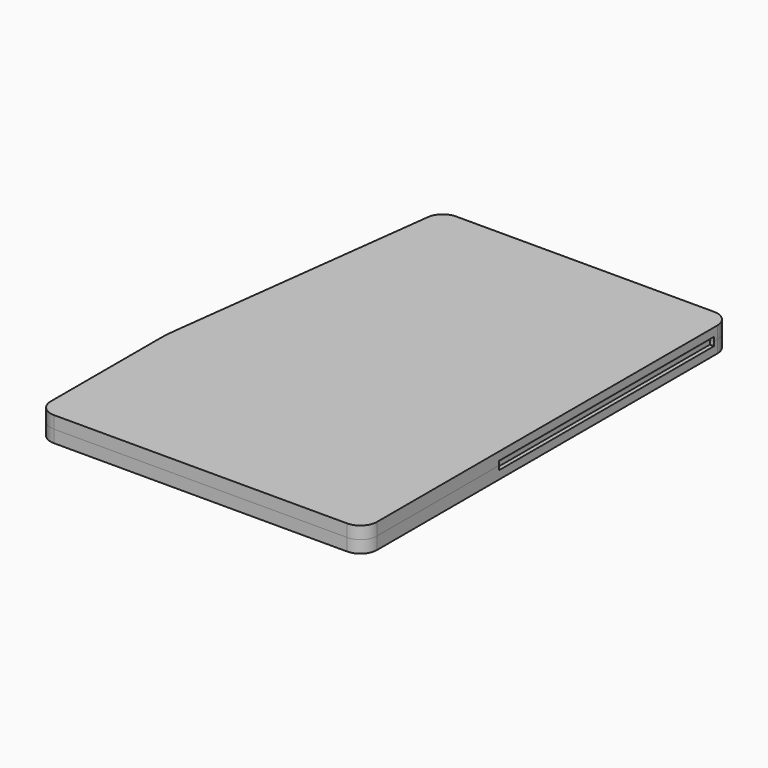
from build123d import *

# Parameters (mm, degrees)
F1_DEPTH = 19.05
F2_W     = 6.35
F2_H     = 412.75
F3_DEPTH = 6.35


with BuildPart() as f1:
    # F0 (on Top) → F1 (new body)
    with BuildSketch(Plane.XY):
        with BuildLine():
            ThreePointArc((25.20377, 42.244397), (32.643258, 24.283885), (50.60377, 16.844397))
            Line((50.60377, 16.844397), (501.45377, 16.844397))
            ThreePointArc((501.45377, 16.844397), (519.414282, 24.283885), (526.85377, 42.244397))
            Line((526.85377, 42.244397), (526.85377, 696.294397))
            ThreePointArc((526.85377, 696.294397), (519.414282, 714.25491), (501.45377, 721.694397))
            Line((501.45377, 721.694397), (104.776438, 721.694397))
            ThreePointArc((104.776438, 721.694397), (87.966653, 715.336223), (79.57258, 699.44488))
            Line((79.57258, 699.44488), (27.165189, 280.185752))
            ThreePointArc((27.165189, 280.185752), (25.694599, 264.463839), (25.20377, 248.680929))
            Line((25.20377, 248.680929), (25.20377, 42.244397))
        make_face()
    extrude(amount=F1_DEPTH)

    # F2 (on face) → F3 (cut)
    with BuildSketch(Plane(origin=(0, 0, 0), x_dir=(1, 0, 0), z_dir=(0, 0, -1))):
        with Locations((523.67877, -483.569397)):
            Rectangle(F2_W, F2_H)
    extrude(amount=-F3_DEPTH, mode=Mode.SUBTRACT)


with BuildPart() as f4_1:
    # F4: instance of F1
    add(f1.part.mirror(Plane.XY))


solid = Compound([f1.part, f4_1.part])
